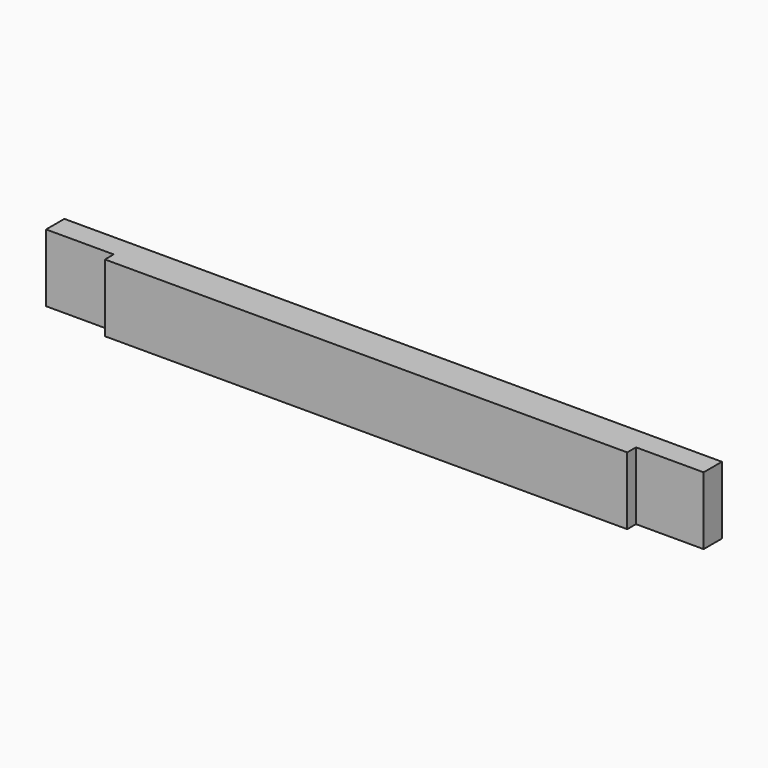
from build123d import *

# Parameters (mm, degrees)
F0_W     = 700
F0_H     = 72
F1_DEPTH = 18
F2_W     = 72
F2_H     = 72
F3_DEPTH = 11.65


with BuildPart() as f1:
    # F0 (on Front) → F1 (new body, symmetric)
    with BuildSketch(Plane.XZ):
        Rectangle(F0_W, F0_H)
    extrude(amount=F1_DEPTH, both=True)

    # F2 (on face) → F3 (cut)
    with BuildSketch(Plane.XZ.offset(18)):
        with Locations((-314, 0)):
            Rectangle(F2_W, F2_H)
        with Locations((314, 0)):
            Rectangle(F2_W, F2_H)
    extrude(amount=-F3_DEPTH, mode=Mode.SUBTRACT)


solid = f1.part
